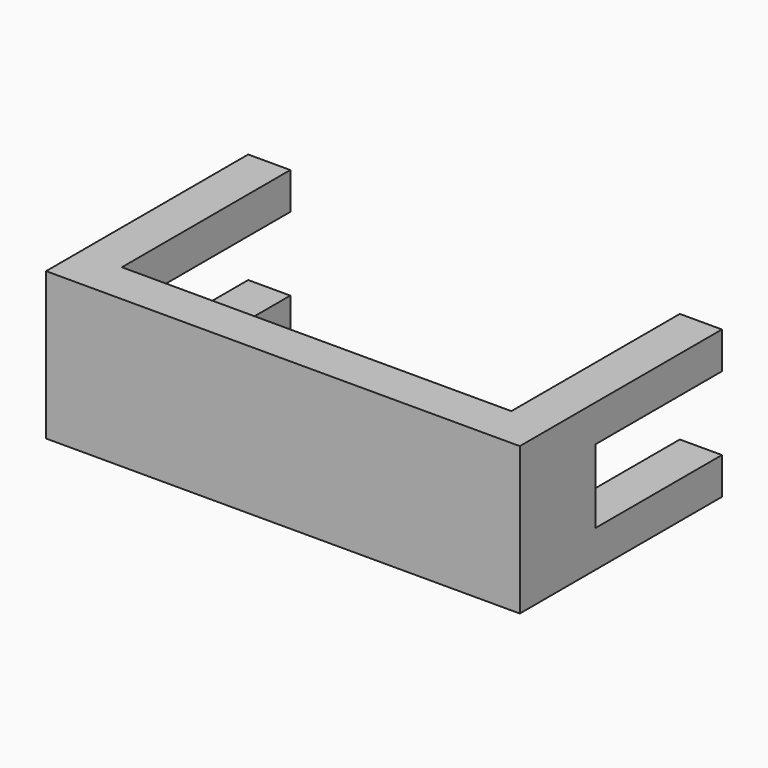
from build123d import *

# Parameters (mm, degrees)
F1_DEPTH = 14
F3_DEPTH = 100


with BuildPart() as f1:
    # F0 (on Top) → F1 (new body)
    with BuildSketch(Plane.XY):
        Polygon((18.5, 0), (0, 0), (-18.5, 0), (-18.5, 20), (-22.5, 20), (-22.5, -4), (0, -4), (22.5, -4), (22.5, 20), (18.5, 20), align=None)
    extrude(amount=F1_DEPTH)

    # F2 (on face) → F3 (cut)
    with BuildSketch(Plane.YZ.offset(22.5)):
        Polygon((20, 3.5), (20, 7), (20, 10.5), (5, 10.5), (5, 3.5), align=None)
    extrude(amount=-F3_DEPTH, mode=Mode.SUBTRACT)


solid = f1.part
